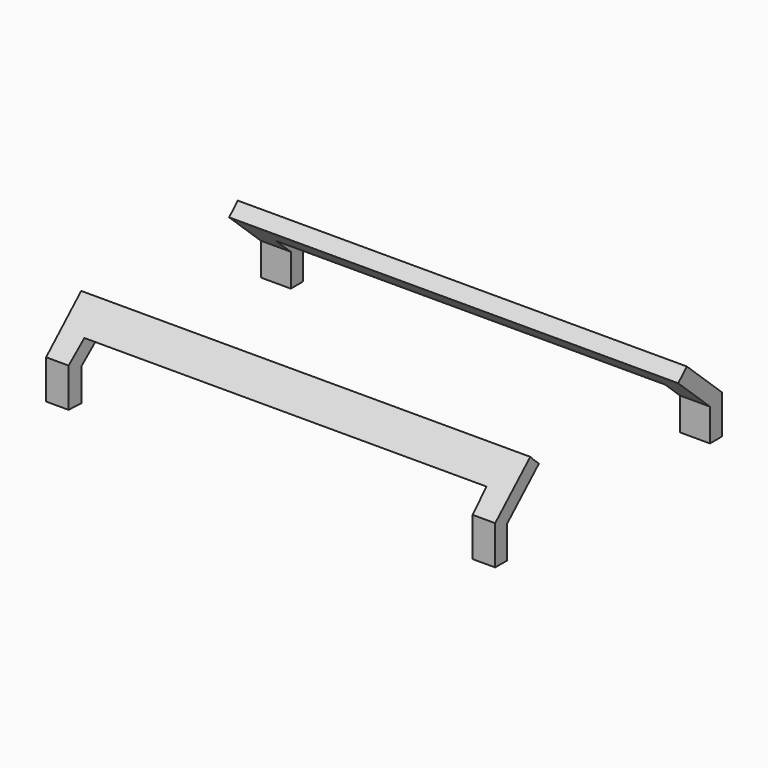
from build123d import *

# Parameters (mm, degrees)
F1_DEPTH = 30
F2_W     = 26
F2_H     = 5
F3_DEPTH = 25
F3_TAPER = -3
F4_DEPTH = 25


with BuildPart() as f1:
    # F0 (on Right) → F1 (new body)
    with BuildSketch(Plane.YZ):
        with BuildLine():
            ThreePointArc((6.5361338316, -6.186998831), (6.1814877812, -6.5413461008), (5.8076611231, -6.8753961544))
            Line((5.8076611231, -6.8753961544), (8.4675702751, -9.3346675858))
            Line((8.4675702751, -9.3346675858), (8.4675702751, -11.5024931729))
            Line((8.4675702751, -11.5024931729), (9.4675702751, -11.5024931729))
            Line((9.4675702751, -11.5024931729), (9.4675702751, -8.8973161713))
            Line((9.4675702751, -8.8973161713), (6.5361338316, -6.186998831))
        make_face()
    extrude(amount=F1_DEPTH)

    # F2 (on Front) → F4 (cut)
    with BuildSketch(Plane.XZ):
        with Locations((15, -10.686998831)):
            Rectangle(F2_W, F2_H)
    extrude(amount=-F4_DEPTH, mode=Mode.SUBTRACT)


with BuildPart() as f1b:
    # F0 (on Right) → F1, piece 2 (new body)
    with BuildSketch(Plane.YZ):
        with BuildLine():
            ThreePointArc((-5.8076611231, -6.8753961544), (-6.1814877812, -6.5413461008), (-6.5361338316, -6.186998831))
            Line((-6.5361338316, -6.186998831), (-9.4675702751, -8.8973161713))
            Line((-9.4675702751, -8.8973161713), (-9.4675702751, -11.5024931729))
            Line((-9.4675702751, -11.5024931729), (-8.4675702751, -11.5024931729))
            Line((-8.4675702751, -11.5024931729), (-8.4675702751, -9.3346675858))
            Line((-8.4675702751, -9.3346675858), (-5.8076611231, -6.8753961544))
        make_face()
    extrude(amount=F1_DEPTH)

    # F2 (on Front) → F3 (cut)
    with BuildSketch(Plane.XZ):
        with Locations((15, -10.686998831)):
            Rectangle(F2_W, F2_H)
    extrude(amount=F3_DEPTH, taper=F3_TAPER, mode=Mode.SUBTRACT)


solid = Compound([f1.part, f1b.part])
